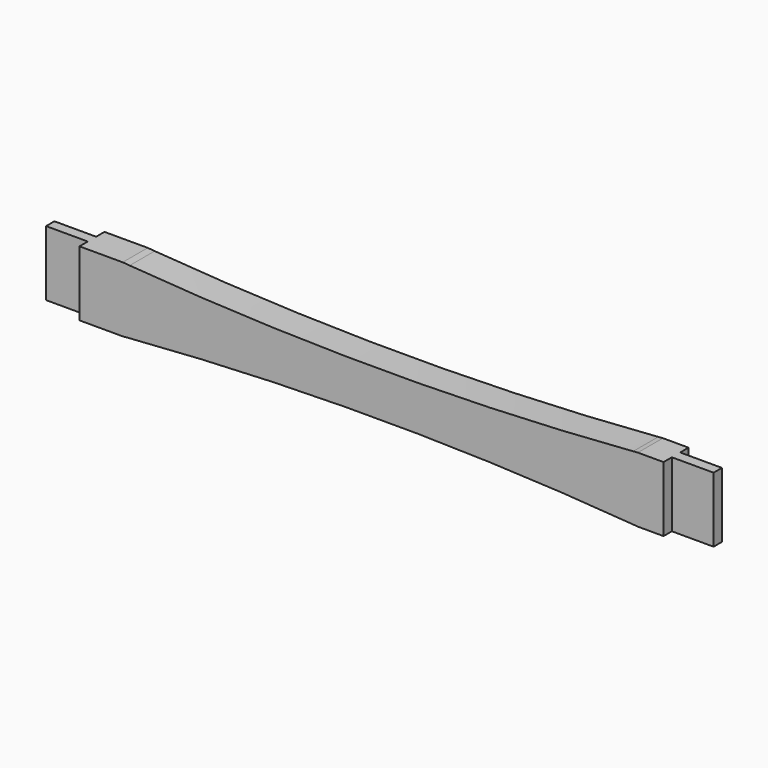
from build123d import *

# Parameters (mm, degrees)
F0_W     = 406.4
F0_H     = 39.6875
F1_DEPTH = 9.525
F2_W     = 25.4
F2_H     = 6.35
F3_DEPTH = 39.6885
F5_DEPTH = 19.051


with BuildPart() as f1:
    # F0 (on Front) → F1 (new body, symmetric)
    with BuildSketch(Plane.XZ):
        Rectangle(F0_W, F0_H)
    extrude(amount=F1_DEPTH, both=True)

    # F2 (on face) → F3 (cut, through all)
    with BuildSketch(Plane.XY.offset(19.84375)):
        with Locations((190.5, -6.35)):
            Rectangle(F2_W, F2_H)
        with Locations((190.5, 6.35)):
            Rectangle(F2_W, F2_H)
        with Locations((-190.5, -6.35)):
            Rectangle(F2_W, F2_H)
        with Locations((-190.5, 6.35)):
            Rectangle(F2_W, F2_H)
    extrude(amount=-F3_DEPTH, mode=Mode.SUBTRACT)

    # F4 (on face) → F5 (cut, through all)
    with BuildSketch(Plane.XZ.offset(9.525)):
        with BuildLine():
            Line((162.1778154521, 19.84375), (-151.4870877189, 19.84375))
            ThreePointArc((-151.4870877189, 19.84375), (-149.3549908007, 19.6719963975), (-147.222705797, 19.5025938249))
            ThreePointArc((-147.222705797, 19.5025938249), (6.0616249582, 13.493882231), (159.3414767794, 19.6157851846))
            ThreePointArc((159.3414767794, 19.6157851846), (160.7596879137, 19.7292475425), (162.1778154521, 19.84375))
        make_face()
        with BuildLine():
            ThreePointArc((-147.222705797, -19.5025938249), (-149.3549908007, -19.6719963975), (-151.4870877189, -19.84375))
            Line((-151.4870877189, -19.84375), (162.1778154521, -19.84375))
            ThreePointArc((162.1778154521, -19.84375), (160.7596879137, -19.7292475425), (159.3414767794, -19.6157851846))
            ThreePointArc((159.3414767794, -19.6157851846), (6.0616249582, -13.493882231), (-147.222705797, -19.5025938249))
        make_face()
    extrude(amount=-F5_DEPTH, mode=Mode.SUBTRACT)


solid = f1.part
